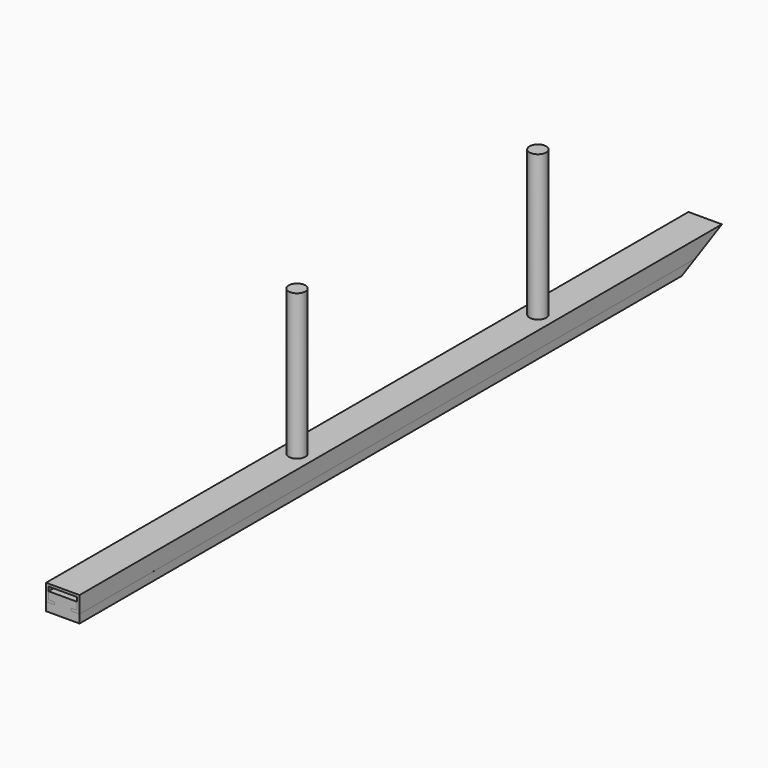
from build123d import *

# Parameters (mm, degrees)
F1_DEPTH = 480
F3_DEPTH = 480
F5_DEPTH = 25
F6_R     = 5
F7_DEPTH = 87


with BuildPart() as f1:
    # F0 (on Front) → F1 (new body)
    with BuildSketch(Plane.XZ):
        Polygon((-10, 5), (-10, -5), (-5, -5), (-5, -3.5), (-8.5, -3.5), (-8.5, 3.5), (8.5, 3.5), (8.5, -3.5), (5, -3.5), (5, -5), (10, -5), (10, 5), align=None)
    extrude(amount=F1_DEPTH)


with BuildPart() as f3:
    # F2 (on face) → F3 (new body)
    with BuildSketch(Plane.XZ.offset(480)):
        Polygon((0, 1), (-8.5, 1), (-8.5, -3.5), (-5, -3.5), (-5, -5), (-10, -5), (-10, -10), (-8.5, -10), (0, -10), (8.5, -10), (10, -10), (10, -5), (5, -5), (5, -3.5), (8.5, -3.5), (8.5, 1), align=None)
    extrude(amount=-F3_DEPTH)


with BuildPart() as f5_tool:
    # F4 (on face) → F5 (new body)
    with BuildSketch(Plane.YZ.offset(10)):
        Polygon((0, -10), (0, 5), (-30, -10), align=None)
    extrude(amount=-F5_DEPTH)


with BuildPart() as f1_1:
    add(f1.part)

    # F5: cut by f5_tool
    add(f5_tool.part, mode=Mode.SUBTRACT)

    # F6 (on face) → F7 (join)
    with BuildSketch(Plane.XY.offset(5)):
        with Locations((0, -305)):
            Circle(F6_R)
        with Locations((0, -125)):
            Circle(F6_R)
    extrude(amount=F7_DEPTH)


with BuildPart() as f3_1:
    add(f3.part)

    # F5: cut by f5_tool
    add(f5_tool.part, mode=Mode.SUBTRACT)


solid = Compound([f1_1.part, f3_1.part])
